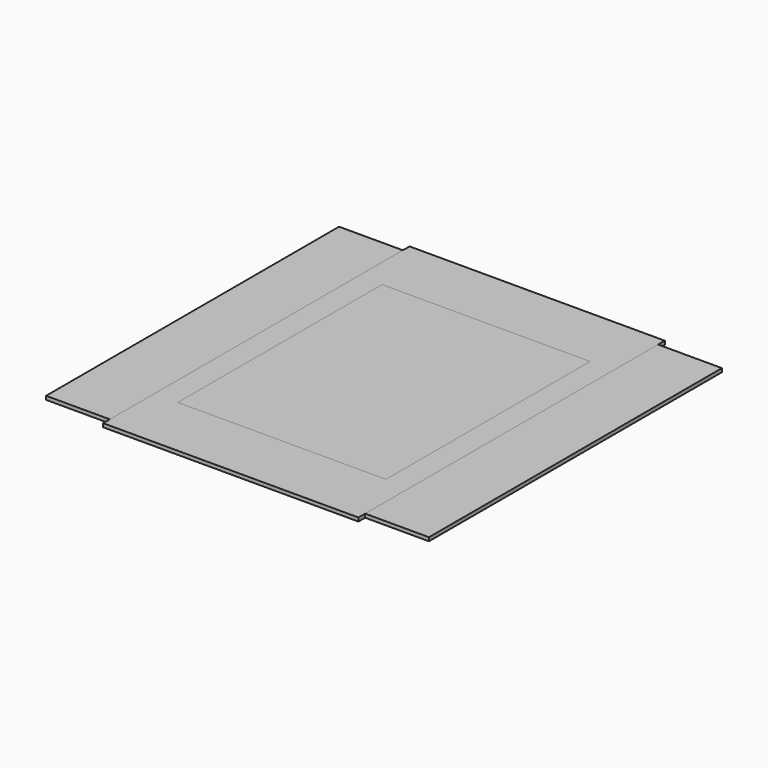
from build123d import *

# Parameters (mm, degrees)
F0_W     = 505
F0_H     = 352
F1_DEPTH = 5
F2_W     = 528
F2_H     = 505
F3_DEPTH = 5
F4_W     = 352
F4_H     = 528
F5_DEPTH = 5
F6_W     = 287
F6_H     = 352
F7_DEPTH = 5


with BuildPart() as f1:
    # F0 (on Top) → F1 (new body)
    with BuildSketch(Plane.XY):
        Rectangle(F0_W, F0_H)
    extrude(amount=F1_DEPTH)


with BuildPart() as f3:
    # F2 (on Top) → F3 (new body)
    with BuildSketch(Plane.XY):
        Rectangle(F2_W, F2_H)
    extrude(amount=F3_DEPTH)


with BuildPart() as f5:
    # F4 (on Top) → F5 (new body)
    with BuildSketch(Plane.XY):
        Rectangle(F4_W, F4_H)
    extrude(amount=F5_DEPTH)


with BuildPart() as f7:
    # F6 (on Top) → F7 (new body)
    with BuildSketch(Plane.XY):
        Rectangle(F6_W, F6_H)
    extrude(amount=F7_DEPTH)


solid = Compound([f1.part, f3.part, f5.part, f7.part])
